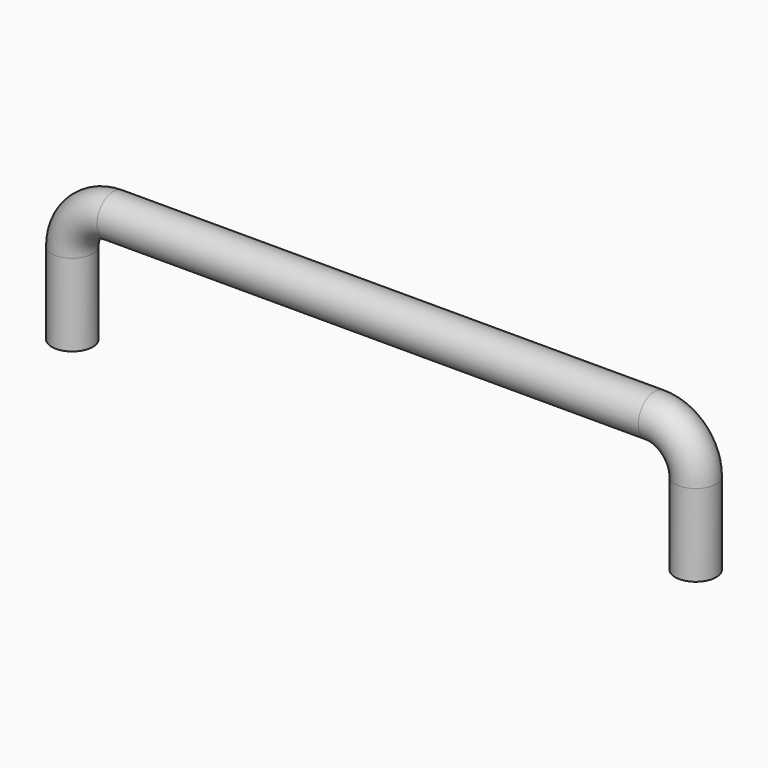
from build123d import *

# Parameters (mm, degrees)
F2_R = 1.5


with BuildPart() as f3:
    # F3: sweep along a path in F0
    with BuildLine(Plane.XZ) as f3_path:
        Line((22.8, -9), (22.8, -3))
        ThreePointArc((22.8, -3), (21.9213203436, -0.8786796564), (19.8, 0))
        Line((19.8, 0), (-19.8, 0))
        ThreePointArc((-19.8, 0), (-21.9213203436, -0.8786796564), (-22.8, -3))
        Line((-22.8, -3), (-22.8, -9))
    # F2 (on offset) → F3 (sweep)
    with BuildSketch(Plane.XY.offset(-9)):
        with Locations((22.8, 0)):
            Circle(F2_R)
    sweep(path=f3_path.line)


solid = f3.part
